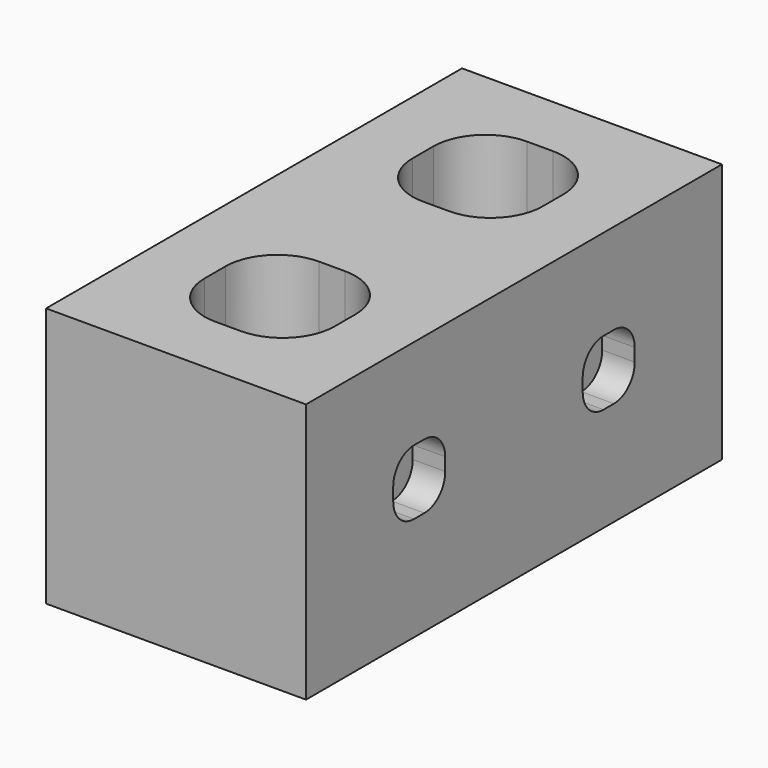
from build123d import *

# Parameters (mm, degrees)
F0_W      = 50.8
F0_H      = 50.8
F1_DEPTH  = 50.8
F2_W      = 25.4
F2_H      = 25.4
F3_DEPTH  = 25.4
F4_R      = 10.16
F5_W      = 12.7
F5_H      = 12.7
F6_DEPTH  = 6.35
F7_R      = 5.08
F10_DEPTH = 25.4
F13_R     = 7.816063
F14_DEPTH = 5.08


with BuildPart() as f1:
    # F0 (on Top) → F1 (new body)
    with BuildSketch(Plane.XY):
        with Locations((25.4, 25.4)):
            Rectangle(F0_W, F0_H)
    extrude(amount=F1_DEPTH)

    # F2 (on face) → F3 (cut)
    with BuildSketch(Plane.XY.offset(50.8)):
        with Locations((25.4, 25.4)):
            Rectangle(F2_W, F2_H)
    extrude(amount=-F3_DEPTH, mode=Mode.SUBTRACT)

    # F4
    f4_edges = [f1.edges().sort_by_distance(p)[0] for p in [
        (12.7, 38.1, 38.1),
        (38.1, 38.1, 38.1),
        (12.7, 12.7, 38.1),
        (38.1, 12.7, 38.1),
    ]]
    fillet(f4_edges, radius=F4_R)

    # F5 (on face) → F6 (cut)
    with BuildSketch(Plane.YZ.offset(50.8)):
        with Locations((23.145751, 26.69926)):
            Rectangle(F5_W, F5_H)
    extrude(amount=-F6_DEPTH, mode=Mode.SUBTRACT)

    # F7
    f7_edges = [f1.edges().sort_by_distance(p)[0] for p in [
        (47.625, 16.795751, 20.34926),
        (47.625, 16.795751, 33.04926),
        (47.625, 29.495751, 33.04926),
        (47.625, 29.495751, 20.34926),
    ]]
    fillet(f7_edges, radius=F7_R)

    # F9 (on face) → F10 (cut)
    with BuildSketch(Plane.XZ):
        Polygon((0, 25.4), (0, 0), (25.4, 0), align=None)
    extrude(amount=-F10_DEPTH, mode=Mode.SUBTRACT)

    # F12: F1 across face


with BuildPart() as f1_1:
    add(f1.part)
    add(f1.part.mirror(Plane(origin=(27.819048, 0, 27.819048), x_dir=(1, 0, 0), z_dir=(0, -1, 0))))

    # F13 (on face) → F14 (cut)
    with BuildSketch(Plane(origin=(0, 0, 0), x_dir=(0, -1, 0), z_dir=(-1, 0, 0))):
        with Locations((-31.531367, 39.15615)):
            Circle(F13_R)
    extrude(amount=-F14_DEPTH, mode=Mode.SUBTRACT)


solid = f1_1.part
